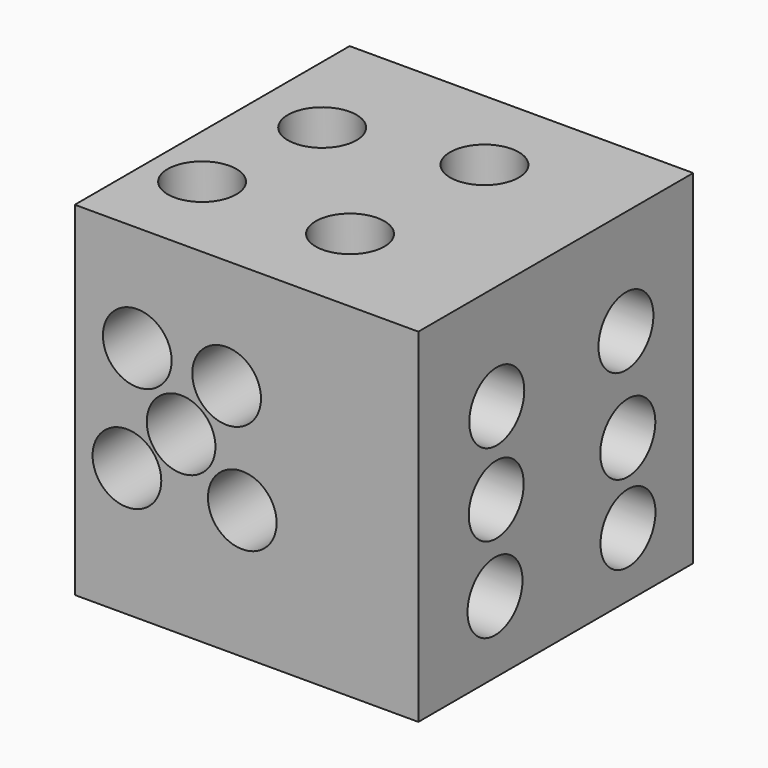
from build123d import *

# Parameters (mm, degrees)
F0_W      = 25.4
F0_H      = 25.4
F1_DEPTH  = 25.4
F2_R      = 2.53667
F3_DEPTH  = 5.08
F4_R      = 2.54
F5_DEPTH  = 5.08
F6_R      = 2.54
F7_DEPTH  = 5.08
F8_R      = 2.543532
F9_DEPTH  = 5.08
F10_R     = 2.54
F11_DEPTH = 5.08
F12_R     = 2.54
F13_DEPTH = 5.08
F14_R     = 2.54
F15_DEPTH = 5.08
F16_R     = 2.54
F18_DEPTH = 5.08
F17_R     = 2.54
F19_DEPTH = 5.08
F20_R     = 2.54
F24_DEPTH = 5.08
F23_R     = 2.54
F25_DEPTH = 5.08
F22_R     = 2.54
F26_DEPTH = 5.08
F21_R     = 2.54
F27_DEPTH = 5.08
F28_R     = 2.54
F29_DEPTH = 5.08
F31_R     = 2.54
F32_DEPTH = 5.08
F30_R     = 2.54
F33_DEPTH = 5.08
F34_R     = 2.54
F35_DEPTH = 5.08
F36_R     = 2.54
F37_DEPTH = 5.08
F38_R     = 2.54
F39_DEPTH = 5.08
F40_R     = 2.54
F41_DEPTH = 5.08
F42_R     = 2.54
F43_DEPTH = 5.08


with BuildPart() as f1:
    # F0 (on Top) → F1 (new body)
    with BuildSketch(Plane.XY):
        with Locations((-141.267316, -86.385182)):
            Rectangle(F0_W, F0_H)
    extrude(amount=F1_DEPTH)

    # F2 (on face) → F3 (cut)
    with BuildSketch(Plane(origin=(-153.967316, 0, 0), x_dir=(0, -1, 0), z_dir=(-1, 0, 0))):
        with Locations((86.594619, 12.688329)):
            Circle(F2_R)
    extrude(amount=-F3_DEPTH, mode=Mode.SUBTRACT)

    # F4 (on face) → F5 (cut)
    with BuildSketch(Plane.YZ.offset(-128.567316)):
        with Locations((-91.838241, 17.597279)):
            Circle(F4_R)
    extrude(amount=-F5_DEPTH, mode=Mode.SUBTRACT)

    # F6 (on face) → F7 (cut)
    with BuildSketch(Plane.YZ.offset(-128.567316)):
        with Locations((-79.903536, 17.633894)):
            Circle(F6_R)
    extrude(amount=-F7_DEPTH, mode=Mode.SUBTRACT)

    # F8 (on face) → F9 (cut)
    with BuildSketch(Plane.YZ.offset(-128.567316)):
        with Locations((-79.729639, 10.625202)):
            Circle(F8_R)
    extrude(amount=-F9_DEPTH, mode=Mode.SUBTRACT)

    # F10 (on face) → F11 (cut)
    with BuildSketch(Plane.YZ.offset(-128.567316)):
        with Locations((-91.890648, 11.548187)):
            Circle(F10_R)
    extrude(amount=-F11_DEPTH, mode=Mode.SUBTRACT)

    # F12 (on face) → F13 (cut)
    with BuildSketch(Plane.YZ.offset(-128.567316)):
        with Locations((-92.000924, 5.3013)):
            Circle(F12_R)
    extrude(amount=-F13_DEPTH, mode=Mode.SUBTRACT)

    # F14 (on face) → F15 (cut)
    with BuildSketch(Plane.YZ.offset(-128.567316)):
        with Locations((-79.714611, 4.743482)):
            Circle(F14_R)
    extrude(amount=-F15_DEPTH, mode=Mode.SUBTRACT)

    # F16 (on face) → F18 (cut)
    with BuildSketch(Plane(origin=(0, -73.685182, 0), x_dir=(-1, 0, 0), z_dir=(0, 1, 0))):
        with Locations((141.562238, 9.688065)):
            Circle(F16_R)
    extrude(amount=-F18_DEPTH, mode=Mode.SUBTRACT)

    # F17 (on face) → F19 (cut)
    with BuildSketch(Plane(origin=(0, -73.685182, 0), x_dir=(-1, 0, 0), z_dir=(0, 1, 0))):
        with Locations((151.23339, 17.802121)):
            Circle(F17_R)
    extrude(amount=-F19_DEPTH, mode=Mode.SUBTRACT)

    # F20 (on face) → F24 (cut)
    with BuildSketch(Plane.XY.offset(25.4)):
        with Locations((-139.285192, -92.00193)):
            Circle(F20_R)
    extrude(amount=-F24_DEPTH, mode=Mode.SUBTRACT)

    # F23 (on face) → F25 (cut)
    with BuildSketch(Plane.XY.offset(25.4)):
        with Locations((-150.029391, -92.245251)):
            Circle(F23_R)
    extrude(amount=-F25_DEPTH, mode=Mode.SUBTRACT)

    # F22 (on face) → F26 (cut)
    with BuildSketch(Plane.XY.offset(25.4)):
        with Locations((-138.614863, -80.417737)):
            Circle(F22_R)
    extrude(amount=-F26_DEPTH, mode=Mode.SUBTRACT)

    # F21 (on face) → F27 (cut)
    with BuildSketch(Plane.XY.offset(25.4)):
        with Locations((-148.84156, -82.628928)):
            Circle(F21_R)
    extrude(amount=-F27_DEPTH, mode=Mode.SUBTRACT)

    # F28 (on face) → F29 (cut)
    with BuildSketch(Plane(origin=(0, 0, 0), x_dir=(1, 0, 0), z_dir=(0, 0, -1))):
        with Locations((-137.074172, 86.087316)):
            Circle(F28_R)
    extrude(amount=-F29_DEPTH, mode=Mode.SUBTRACT)

    # F31 (on face) → F32 (cut)
    with BuildSketch(Plane(origin=(0, 0, 0), x_dir=(1, 0, 0), z_dir=(0, 0, -1))):
        with Locations((-151.292577, 86.176708)):
            Circle(F31_R)
    extrude(amount=-F32_DEPTH, mode=Mode.SUBTRACT)

    # F30 (on face) → F33 (cut)
    with BuildSketch(Plane(origin=(0, 0, 0), x_dir=(1, 0, 0), z_dir=(0, 0, -1))):
        with Locations((-144.312844, 86.029641)):
            Circle(F30_R)
    extrude(amount=-F33_DEPTH, mode=Mode.SUBTRACT)

    # F34 (on face) → F35 (cut)
    with BuildSketch(Plane.XZ.offset(99.085182)):
        with Locations((-142.741442, 17.257215)):
            Circle(F34_R)
    extrude(amount=-F35_DEPTH, mode=Mode.SUBTRACT)

    # F36 (on face) → F37 (cut)
    with BuildSketch(Plane.XZ.offset(99.085182)):
        with Locations((-146.107584, 13.017296)):
            Circle(F36_R)
    extrude(amount=-F37_DEPTH, mode=Mode.SUBTRACT)

    # F38 (on face) → F39 (cut)
    with BuildSketch(Plane.XZ.offset(99.085182)):
        with Locations((-141.585246, 9.540573)):
            Circle(F38_R)
    extrude(amount=-F39_DEPTH, mode=Mode.SUBTRACT)

    # F40 (on face) → F41 (cut)
    with BuildSketch(Plane.XZ.offset(99.085182)):
        with Locations((-149.347872, 17.567154)):
            Circle(F40_R)
    extrude(amount=-F41_DEPTH, mode=Mode.SUBTRACT)

    # F42 (on face) → F43 (cut)
    with BuildSketch(Plane.XZ.offset(99.085182)):
        with Locations((-150.112391, 9.50997)):
            Circle(F42_R)
    extrude(amount=-F43_DEPTH, mode=Mode.SUBTRACT)


solid = f1.part
